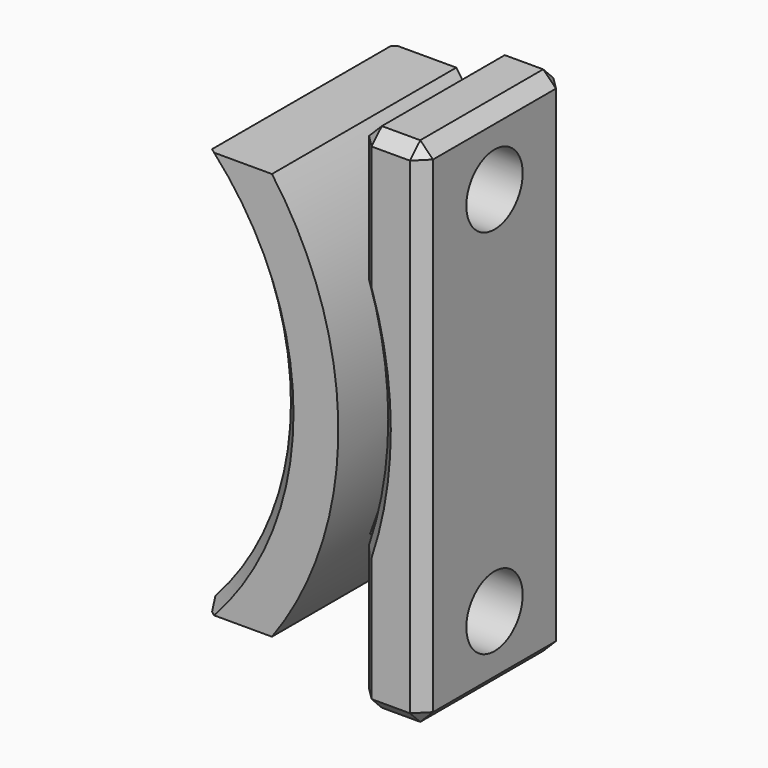
from build123d import *

# Parameters (mm, degrees)
PAD017_DEPTH    = 9
SKETCH031_W     = 8.5
SKETCH031_H     = 20
PAD018_DEPTH    = 3.5
PAD019_DEPTH    = 7
SKETCH033_R     = 2.75
POCKET013_DEPTH = 5.001
CHAMFER014_SIZE = 1


with BuildPart() as part:
    # Sketch030 → Pad017 (new body, symmetric)
    with BuildSketch(Plane.XZ):
        with BuildLine():
            ThreePointArc((-62.185441, -21.409903), (-57, -5.5), (-62.185441, 10.409903))
            Line((-68.090097, 10.409903), (-62.185441, 10.409903))
            ThreePointArc((-68.090097, -21.409903), (-61.5, -5.5), (-68.090097, 10.409903))
            Line((-68.090097, -21.409903), (-62.185441, -21.409903))
        make_face()
    extrude(amount=PAD017_DEPTH, both=True)

    # Sketch031 → Pad018 (join, symmetric)
    with BuildSketch(Plane.XZ):
        with Locations((-56.25, -5.5)):
            Rectangle(SKETCH031_W, SKETCH031_H)
    extrude(amount=PAD018_DEPTH, both=True)

    # Sketch032 → Pad019 (join, symmetric)
    with BuildSketch(Plane.XZ):
        with BuildLine():
            Line((-52, 14.5), (-57, 14.5))
            Line((-57, 14.5), (-57, 3.624144))
            ThreePointArc((-57, -14.624144), (-55.5, -5.5), (-57, 3.624144))
            Line((-57, -14.624144), (-57, -25.5))
            Line((-57, -25.5), (-52, -25.5))
            Line((-52, -25.5), (-52, 14.5))
        make_face()
    extrude(amount=PAD019_DEPTH, both=True)

    # Sketch033 → Pocket013 (cut, through all)
    with BuildSketch(Plane.YZ.offset(-57)):
        with Locations((0, 9)):
            Circle(SKETCH033_R)
        with Locations((0, -20)):
            Circle(SKETCH033_R)
    extrude(amount=POCKET013_DEPTH, mode=Mode.SUBTRACT)

    # Chamfer014
    chamfer014_edges = [part.edges().sort_by_distance(p)[0] for p in [
        (-57, -7, -20.062072),
        (-54.5, -7, -25.5),
        (-52, -7, -5.5),
        (-54.5, -7, 14.5),
        (-57, -7, 9.062072),
        (-55.5, -7, -5.5),
        (-52, 0, 14.5),
        (-57, 0, 14.5),
        (-54.5, 7, 14.5),
        (-57, 7, -20.062072),
        (-54.5, 7, -25.5),
        (-52, 7, -5.5),
        (-57, 7, 9.062072),
        (-55.5, 7, -5.5),
        (-57, 0, -25.5),
        (-52, 0, -25.5),
        (-68.090097, 0, -21.409903),
        (-68.090097, 0, 10.409903),
        (-61.5, 9, -5.5),
        (-61.5, -9, -5.5),
    ]]
    chamfer(chamfer014_edges, length=CHAMFER014_SIZE)


with BuildPart() as part_1:
    # Body001008 placement: moved
    add(part.part.moved(Location((0, 55, 0))))


solid = part_1.part
